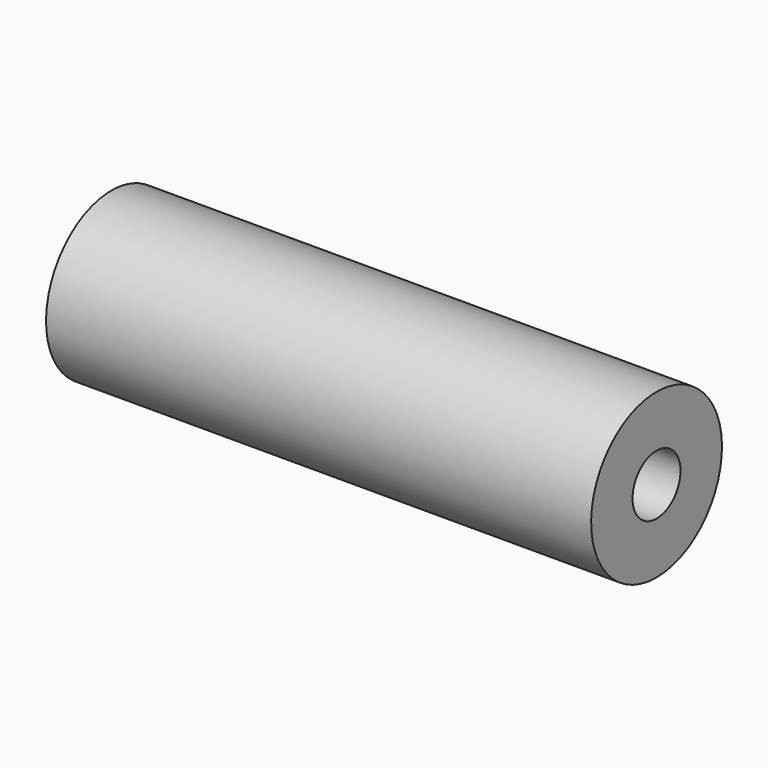
from build123d import *

# Parameters (mm, degrees)
OBJ1_R     = 1.1
OBJ1_DEPTH = 20
OBJ2     = 3
OBJ3 = 20


with BuildPart() as obj1:
    # obj1 → obj1 (new body)
    with BuildSketch(Plane(origin=(55, -1, 43), x_dir=(0, 0, -1), z_dir=(1, 0, 0))):
        Circle(OBJ1_R)
    extrude(amount=OBJ1_DEPTH)


with BuildPart() as hinge_middle:
    with BuildSketch(Plane(origin=(55, -1, 43), x_dir=(0, 0, -1), z_dir=(1, 0, 0))):
        Circle(OBJ2)
    extrude(amount=OBJ3)

    # hinge_middle: cut obj1
    add(obj1.part, mode=Mode.SUBTRACT)


solid = hinge_middle.part
